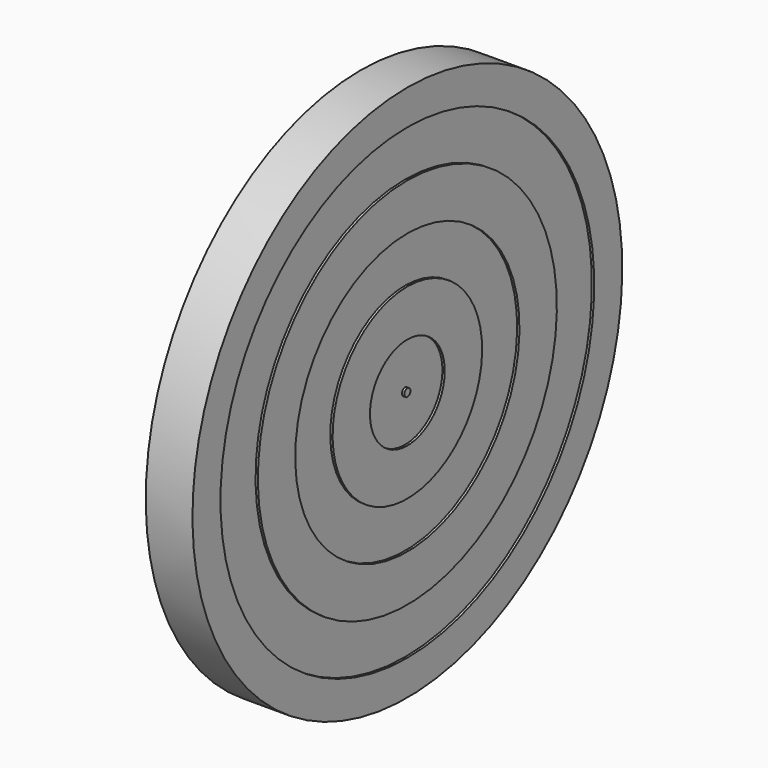
from build123d import *

# Parameters (mm, degrees)
F0_W     = 0.9
F0_H     = 2.0004334223
F0_H_2   = 1.8349681455
F0_H_3   = 2
F2_ANGLE = -90


with BuildPart() as f1:
    # F0 (on Top) → F1 (revolve)
    with BuildSketch(Plane.XY):
        Polygon((-15.2818961069, 13.4959128886), (-16.2288863212, 13.4959128886), (-16.2288863212, 11.9957883131), (-15.3288863212, 11.9957883131), (-15.2288863212, 11.9957883131), (-15.2288863212, 13.4959128886), align=None)
        Polygon((-16.2288863212, 5.9953548908), (-16.2288863212, 3.9959128886), (-15.3288863212, 3.9959128886), (-15.2288863212, 3.9959128886), (-15.2288863212, 5.9959128886), (-15.3288863212, 5.9953548908), align=None)
        with Locations((-15.7788863212, 6.995571602)):
            Rectangle(F0_W, F0_H)
        with Locations((-15.7788863212, 3.0784288158)):
            Rectangle(F0_W, F0_H_2)
        Polygon((-15.3288863212, 9.9957883131), (-16.2288863212, 9.9957883131), (-16.2288863212, 7.9957883131), (-15.3288863212, 7.9957883131), (-15.2512086494, 7.9957883131), (-15.2288863212, 7.9957883131), (-15.2288863212, 9.9957883131), align=None)
        with Locations((-15.7788863212, 10.9957883131)):
            Rectangle(F0_W, F0_H_3)
        Polygon((-16.2288863212, 13.4959128886), (-17.2288863212, 13.4959128886), (-17.2288863212, 1.9959128886), (-16.2288863212, 1.9959128886), (-16.2288863212, 2.1609447431), (-16.2288863212, 3.9959128886), (-16.2288863212, 5.9953548908), (-16.2288863212, 7.9957883131), (-16.2288863212, 9.9957883131), (-16.2288863212, 11.9957883131), align=None)
        Polygon((-16.2288863212, 2.1609447431), (-16.2288863212, 1.9959128886), (-15.2288863212, 1.9959128886), (-15.2288863212, 2.1609447431), (-15.3288863212, 2.1609447431), align=None)
    revolve(axis=Axis((-24.6414710656, 1.9959128886, 0), (-1, 0, 0)))


with BuildPart() as f1_1:
    # F2: moved
    add(f1.part.rotate(Axis((-11.1051534079, 1.9959128886, 0), (-1, 0, 0)), F2_ANGLE))


solid = f1_1.part
